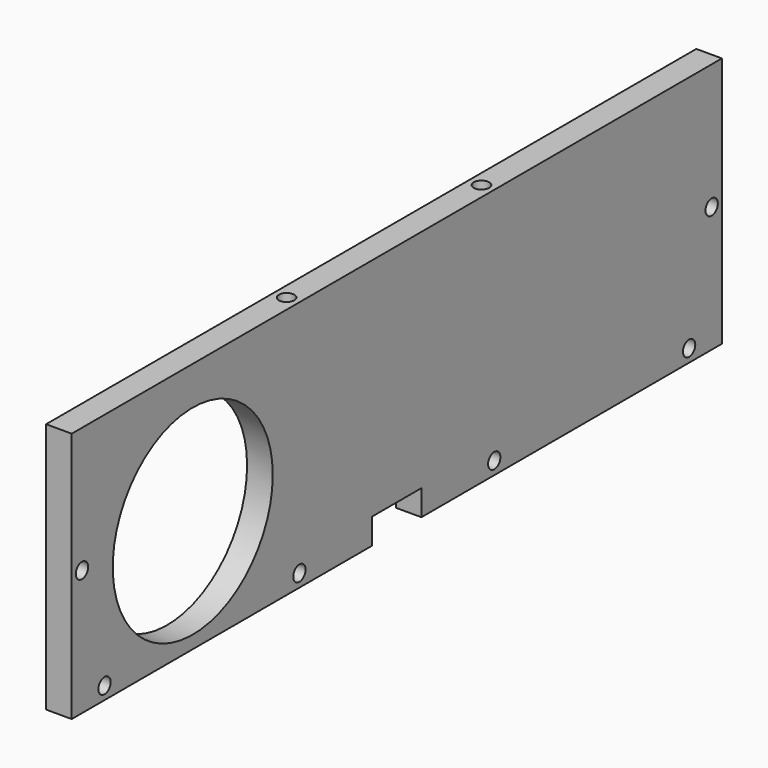
from build123d import *

# Parameters (mm, degrees)
F0_R     = 1.5
F0_R_2   = 19.5
F1_DEPTH = 5
F2_R     = 1.5
F3_DEPTH = 5


with BuildPart() as f1:
    # F0 (on Right) → F1 (new body)
    with BuildSketch(Plane.YZ):
        Polygon((0, 49), (0, 0), (73.25, 0), (73.25, 5), (85.25, 5), (85.25, 0), (158.5, 0), (158.5, 49), align=None)
        with Locations((8, 2.5)):
            Circle(F0_R, mode=Mode.SUBTRACT)
        with Locations((55.5, 2.5)):
            Circle(F0_R, mode=Mode.SUBTRACT)
        with Locations((2.5, 24.5)):
            Circle(F0_R, mode=Mode.SUBTRACT)
        with Locations((29.5, 22)):
            Circle(F0_R_2, mode=Mode.SUBTRACT)
        with Locations((103, 2.5)):
            Circle(F0_R, mode=Mode.SUBTRACT)
        with Locations((150.5, 2.5)):
            Circle(F0_R, mode=Mode.SUBTRACT)
        with Locations((156, 24.5)):
            Circle(F0_R, mode=Mode.SUBTRACT)
    extrude(amount=F1_DEPTH)

    # F2 (on face) → F3 (cut)
    with BuildSketch(Plane.XY.offset(49)):
        with Locations((2.5, 55.5)):
            Circle(F2_R)
        with Locations((2.5, 103)):
            Circle(F2_R)
    extrude(amount=-F3_DEPTH, mode=Mode.SUBTRACT)


solid = f1.part
